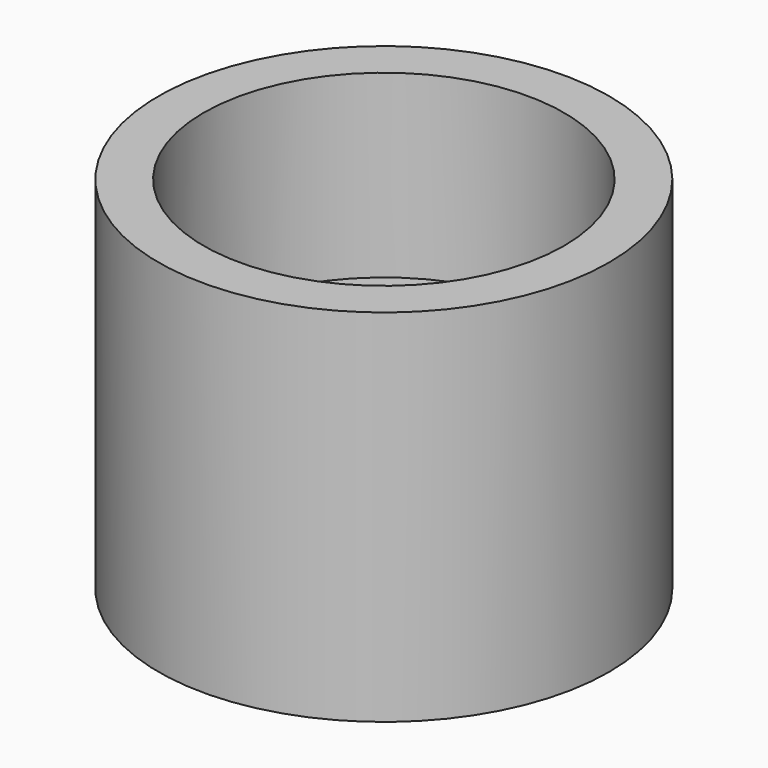
from build123d import *

# Parameters (mm, degrees)
F0_R     = 7.9375
F0_R_2   = 2.54
F1_DEPTH = 14.2875
F2_SIZE2 = 3.96875
F2_SIZE  = 1.5875
F3_R     = 6.35
F3_R_2   = 2.54
F4_DEPTH = 6.35


with BuildPart() as f1:
    # F0 (on Top) → F1 (new body)
    with BuildSketch(Plane.XY):
        Circle(F0_R)
        Circle(F0_R_2, mode=Mode.SUBTRACT)
    extrude(amount=F1_DEPTH)

    # F2
    f2_edges = [f1.edges().sort_by_distance(p)[0] for p in [
        (-7.9375, 0, 0),
    ]]
    chamfer(f2_edges, length=F2_SIZE, length2=F2_SIZE2)

    # F3 (on face) → F4 (cut)
    with BuildSketch(Plane.XY.offset(14.2875)):
        Circle(F3_R)
        Circle(F3_R_2, mode=Mode.SUBTRACT)
    extrude(amount=-F4_DEPTH, mode=Mode.SUBTRACT)


solid = f1.part
